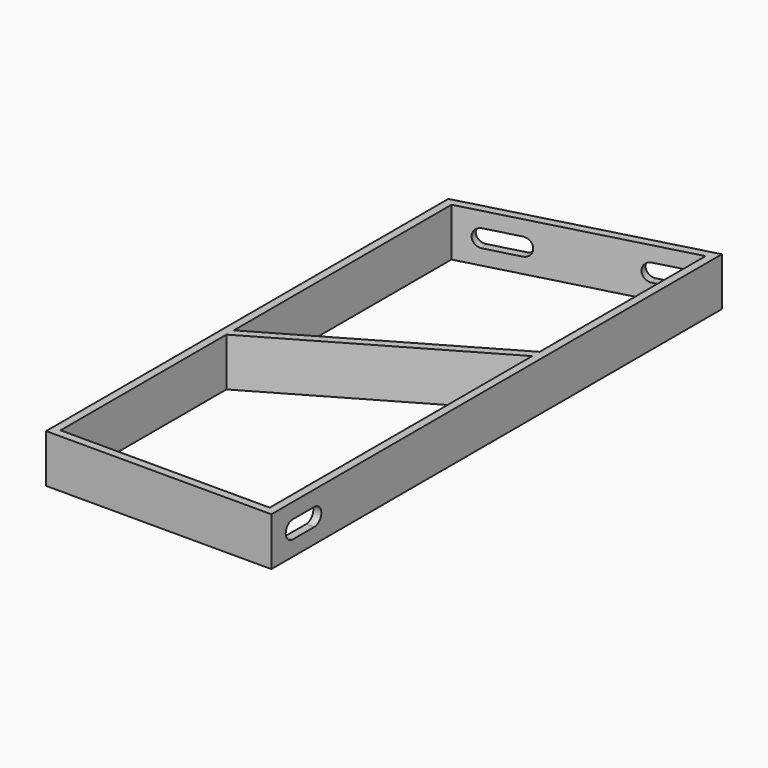
from build123d import *

# Parameters (mm, degrees)
PAD_DEPTH       = 9
POCKET_DEPTH    = 10
POCKET001_DEPTH = 5
SKETCH003_R     = 1.6
POCKET002_DEPTH = 5
POCKET003_DEPTH = 2


with BuildPart() as part:
    # Sketch → Pad (new body)
    with BuildSketch(Plane.XY):
        Polygon((-21, 41.246133918), (21, 52.5), (21, -52.5), (-21, -52.5), align=None)
    extrude(amount=PAD_DEPTH)

    # Sketch001 → Pocket (cut)
    with BuildSketch(Plane.XY.offset(9)):
        Polygon((-19.5, 40.095143436), (-19.5, -10.619723875), (19.5, 11.8969366233), (19.5, 50.5451619407), align=None)
        Polygon((-19.5, -12.3517746826), (-19.5, -51), (19.5, -51), (19.5, 10.1648858158), align=None)
    extrude(amount=-POCKET_DEPTH, mode=Mode.SUBTRACT)

    # Sketch002 → Pocket001 (cut)
    with BuildSketch(Plane(origin=(-11.7182667397, 43.7331668494, 0), x_dir=(-0.9659258263, -0.2588190451, 0), z_dir=(-0.2588190451, 0.9659258263, 0))):
        with BuildLine():
            ThreePointArc((-2.8908426427, 6.15), (-4.5408426427, 4.5), (-2.8908426427, 2.85))
            Line((-2.8908426427, 2.85), (3.6091573573, 2.85))
            ThreePointArc((3.6091573573, 2.85), (5.2591573573, 4.5), (3.6091573573, 6.15))
            Line((-2.8908426427, 6.15), (3.6091573573, 6.15))
        make_face()
        with BuildLine():
            ThreePointArc((-29.8908426427, 6.15), (-31.5408426427, 4.5), (-29.8908426427, 2.85))
            Line((-29.8908426427, 2.85), (-23.3908426427, 2.85))
            ThreePointArc((-23.3908426427, 2.85), (-21.7408426427, 4.5), (-23.3908426427, 6.15))
            Line((-29.8908426427, 6.15), (-23.3908426427, 6.15))
        make_face()
    extrude(amount=-POCKET001_DEPTH, mode=Mode.SUBTRACT)

    # Sketch003 → Pocket002 (cut)
    with BuildSketch(Plane.XY.offset(9)):
        with Locations((37, -21.7740142833)):
            Circle(SKETCH003_R)
    extrude(amount=-POCKET002_DEPTH, mode=Mode.SUBTRACT)

    # Sketch004 → Pocket003 (cut)
    with BuildSketch(Plane.YZ.offset(21)):
        with BuildLine():
            ThreePointArc((-47.5, 6.15), (-49.15, 4.5), (-47.5, 2.85))
            Line((-47.5, 2.85), (-42.5, 2.85))
            ThreePointArc((-42.5, 2.85), (-40.85, 4.5), (-42.5, 6.15))
            Line((-47.5, 6.15), (-42.5, 6.15))
        make_face()
    extrude(amount=-POCKET003_DEPTH, mode=Mode.SUBTRACT)


solid = part.part
